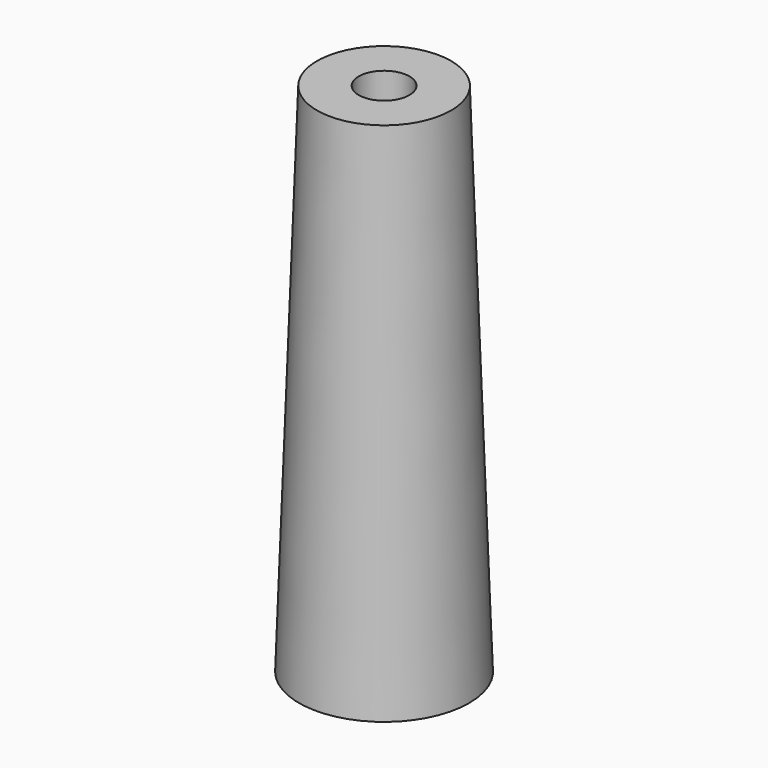
from build123d import *

# Parameters (mm, degrees)
F0_R     = 9.9
F2_R     = 7.8
F4_R     = 2.95
F5_DEPTH = 60.001


with BuildPart() as f3:
    # F0 (on Top) → F3 section 0
    with BuildSketch(Plane.XY):
        Circle(F0_R)
    # F2 (on offset) → F3 section 1
    with BuildSketch(Plane.XY.offset(60)):
        Circle(F2_R)
    loft()

    # F4 (on face) → F5 (cut, through all)
    with BuildSketch(Plane.XY.offset(60)):
        Circle(F4_R)
    extrude(amount=-F5_DEPTH, mode=Mode.SUBTRACT)


solid = f3.part
